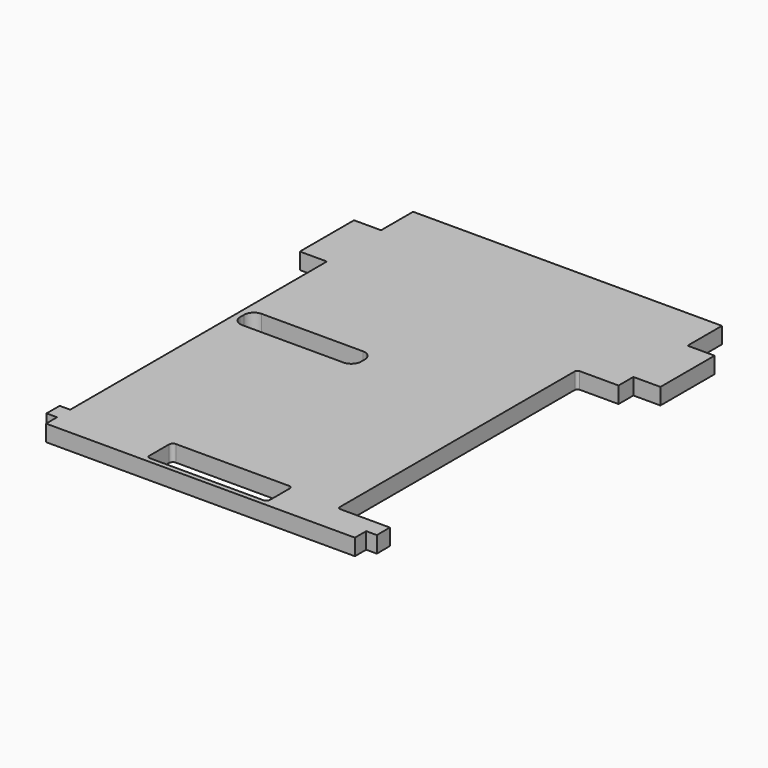
from build123d import *

# Parameters (mm, degrees)
F1_DEPTH = 3


with BuildPart() as f1:
    # F0 (on Top) → F1 (new body)
    with BuildSketch(Plane.XY):
        with BuildLine():
            Line((42.596083, 28.325864), (-14.045917, 28.325864))
            Line((-14.045917, 28.325864), (-14.045917, 20.979264))
            Line((-14.045917, 20.979264), (-19.005917, 20.979264))
            Line((-19.005917, 20.979264), (-19.005917, 8.559264))
            Line((-19.005917, 8.559264), (-14.045917, 8.559264))
            Line((-14.045917, 8.559264), (-14.045917, -50.300736))
            Line((-14.045917, -50.300736), (-15.975917, -50.300736))
            Line((-15.975917, -50.300736), (-15.975917, -53.300736))
            Line((-15.975917, -53.300736), (-14.045917, -53.300736))
            Line((-14.045917, -53.300736), (-14.045917, -55.822913))
            Line((-14.045917, -55.822913), (42.596083, -55.822913))
            Line((42.596083, -55.822913), (42.596083, -53.233532))
            Line((42.596083, -53.233532), (44.561083, -53.233532))
            Line((44.561083, -53.233532), (44.526083, -50.233736))
            Line((44.526083, -50.233736), (42.596083, -50.233736))
            Line((42.596083, -50.233736), (40.004083, -50.233736))
            Line((40.004083, -50.233736), (35.468283, -50.233736))
            ThreePointArc((35.468283, -50.233736), (35.114252, -50.082129), (34.968283, -49.725736))
            Line((34.968283, -49.725736), (34.968283, 4.122264))
            ThreePointArc((34.968283, 4.122264), (35.11473, 4.475817), (35.468283, 4.622264))
            Line((35.468283, 4.622264), (42.596083, 4.622264))
            Line((42.596083, 4.622264), (42.596083, 8.025864))
            Line((42.596083, 8.025864), (47.556083, 8.025864))
            Line((47.556083, 8.025864), (47.556083, 20.445864))
            Line((47.556083, 20.445864), (42.596083, 20.445864))
            Line((42.596083, 20.445864), (42.596083, 28.325864))
        make_face()
        with BuildLine():
            Line((4.434083, -49.161828), (14.757683, -49.161828))
            Line((14.757683, -49.161828), (25.081283, -49.161828))
            ThreePointArc((25.081283, -49.161828), (25.493688, -49.248974), (25.781283, -49.557132))
            Line((25.781283, -49.557132), (25.781283, -54.227732))
            ThreePointArc((25.781283, -54.227732), (25.576258, -54.722707), (25.081283, -54.927732))
            Line((25.081283, -54.927732), (14.757683, -54.927732))
            Line((14.757683, -54.927732), (4.434083, -54.927732))
            ThreePointArc((4.434083, -54.927732), (4.021678, -54.840585), (3.734083, -54.532428))
            Line((3.734083, -54.532428), (3.734083, -49.861828))
            ThreePointArc((3.734083, -49.861828), (3.939108, -49.366853), (4.434083, -49.161828))
        make_face(mode=Mode.SUBTRACT)
        with BuildLine():
            ThreePointArc((-12.979117, -11.729936), (-12.458353, -10.4727), (-11.201117, -9.951936))
            Line((-11.201117, -9.951936), (7.391683, -9.951936))
            ThreePointArc((7.391683, -9.951936), (8.648919, -10.4727), (9.169683, -11.729936))
            Line((9.169683, -11.729936), (9.169683, -12.644336))
            ThreePointArc((9.169683, -12.644336), (8.648919, -13.901572), (7.391683, -14.422336))
            Line((7.391683, -14.422336), (-11.201117, -14.422336))
            ThreePointArc((-11.201117, -14.422336), (-12.458353, -13.901572), (-12.979117, -12.644336))
            Line((-12.979117, -12.644336), (-12.979117, -11.729936))
        make_face(mode=Mode.SUBTRACT)
    extrude(amount=F1_DEPTH)


solid = f1.part
